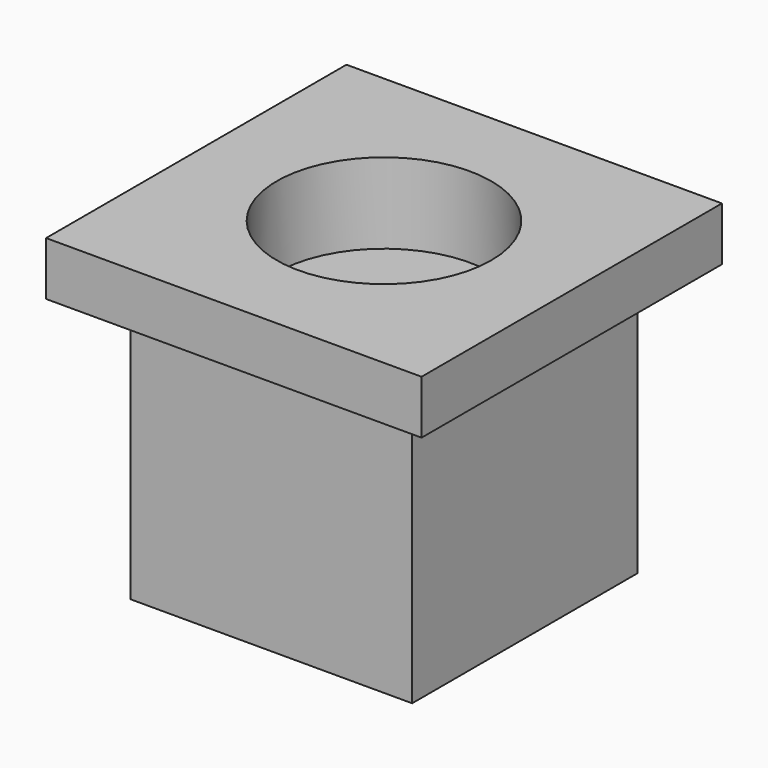
from build123d import *

# Parameters (mm, degrees)
F0_W     = 5.25
F0_H     = 5.25
F1_DEPTH = 5
F2_W     = 7
F2_H     = 7
F3_DEPTH = 1
F4_R     = 2
F5_DEPTH = 1.5


with BuildPart() as f1:
    # F0 (on Top) → F1 (new body)
    with BuildSketch(Plane.XY):
        Rectangle(F0_W, F0_H)
    extrude(amount=F1_DEPTH)

    # F2 (on face) → F3 (join)
    with BuildSketch(Plane.XY.offset(5)):
        Rectangle(F2_W, F2_H)
    extrude(amount=F3_DEPTH)

    # F4 (on face) → F5 (cut)
    with BuildSketch(Plane.XY.offset(6)):
        Circle(F4_R)
    extrude(amount=-F5_DEPTH, mode=Mode.SUBTRACT)


solid = f1.part
